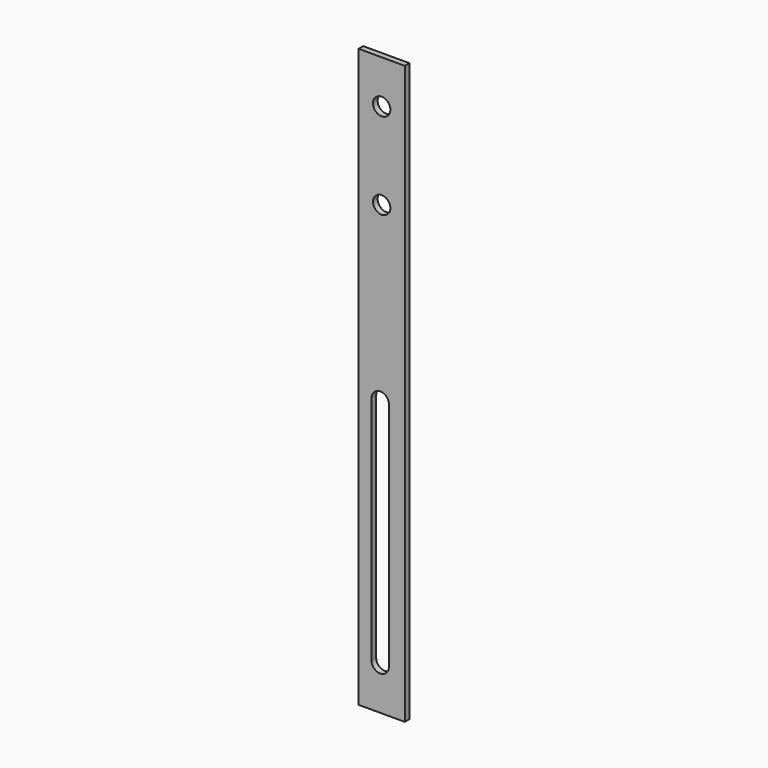
from build123d import *

# Parameters (mm, degrees)
F0_W     = 16
F0_H     = 200
F0_R     = 3
F1_DEPTH = 2


with BuildPart() as f1:
    # F0 (on Front) → F1 (new body)
    with BuildSketch(Plane.XZ):
        with Locations((8, 100)):
            Rectangle(F0_W, F0_H)
        with BuildLine():
            Line((4.5, 15), (4.5, 95))
            ThreePointArc((4.5, 95), (7.5, 98), (10.5, 95))
            Line((10.5, 95), (10.5, 15))
            ThreePointArc((10.5, 15), (7.5, 12), (4.5, 15))
        make_face(mode=Mode.SUBTRACT)
        with Locations((8, 155)):
            Circle(F0_R, mode=Mode.SUBTRACT)
        with Locations((8, 185)):
            Circle(F0_R, mode=Mode.SUBTRACT)
    extrude(amount=F1_DEPTH)


solid = f1.part
